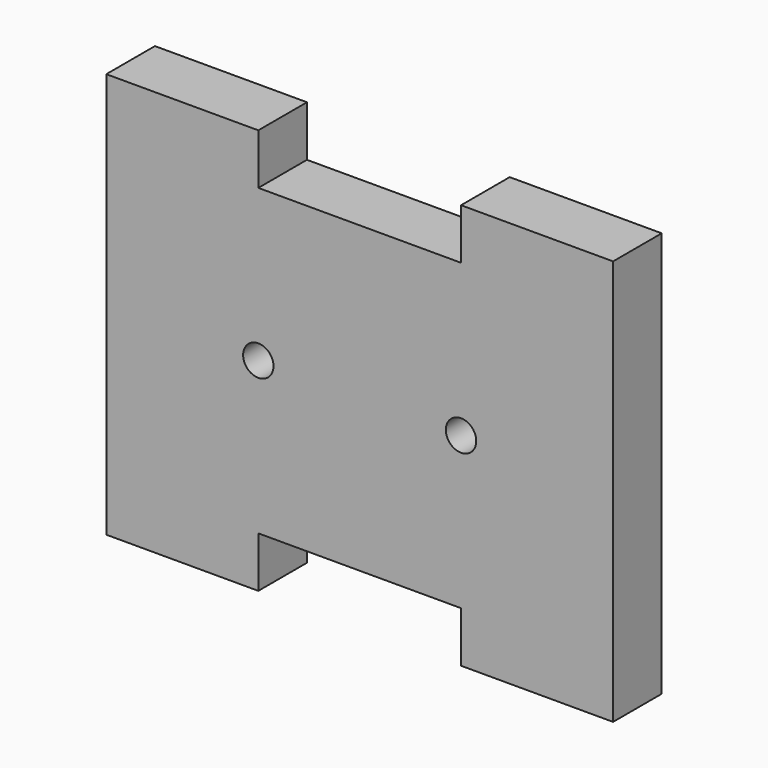
from build123d import *

# Parameters (mm, degrees)
F0_R     = 1.5
F1_DEPTH = 6


with BuildPart() as f1:
    # F0 (on Front) → F1 (new body)
    with BuildSketch(Plane.XZ):
        Polygon((15, -5), (15, 0), (35, 0), (35, -5), (50, -5), (50, 0), (50, 30), (50, 35), (35, 35), (35, 30), (15, 30), (15, 35), (0, 35), (0, 30), (0, 0), (0, -5), align=None)
        with Locations((15, 15)):
            Circle(F0_R, mode=Mode.SUBTRACT)
        with Locations((35, 15)):
            Circle(F0_R, mode=Mode.SUBTRACT)
    extrude(amount=F1_DEPTH)


solid = f1.part
